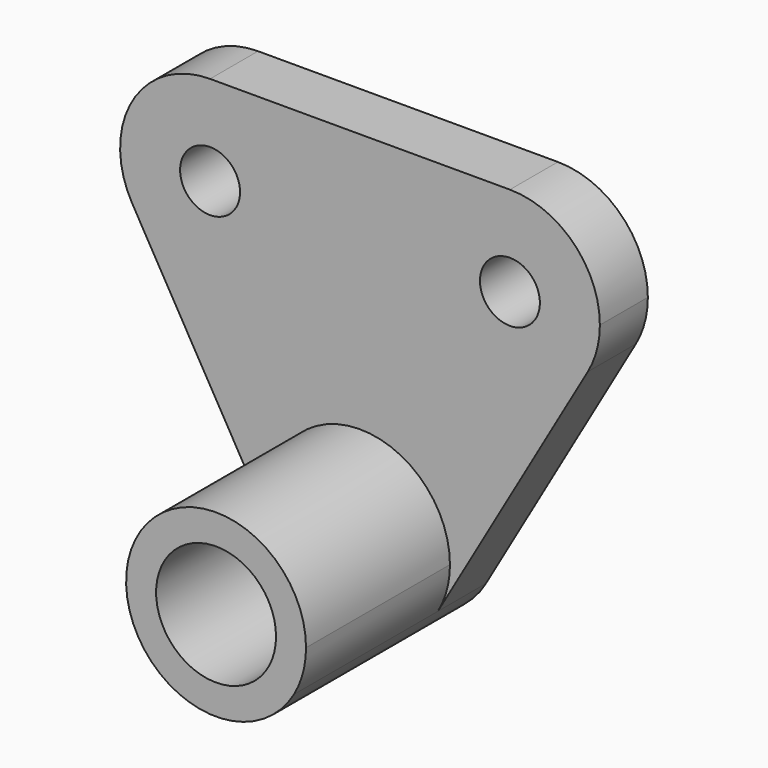
from build123d import *

# Parameters (mm, degrees)
F0_R     = 10
F0_R_2   = 20
F1_DEPTH = 20
F2_DEPTH = 80


with BuildPart() as f1:
    # F0 (on Front) → F1 (new body)
    with BuildSketch(Plane.XZ):
        with BuildLine():
            ThreePointArc((-75.980762, 27.566586), (-42.235429, 13.588811), (-20, 42.566586))
            ThreePointArc((-20, 42.566586), (-28.786797, 63.77979), (-50, 72.566586))
            ThreePointArc((-50, 72.566586), (-75.980762, 57.566586), (-75.980762, 27.566586))
        make_face()
        with Locations((-50, 42.566586)):
            Circle(F0_R, mode=Mode.SUBTRACT)
        with BuildLine():
            ThreePointArc((-50, 72.566586), (-28.786797, 63.77979), (-20, 42.566586))
            ThreePointArc((-20, 42.566586), (-42.235429, 13.588811), (-75.980762, 27.566586))
            Line((-75.980762, 27.566586), (-25.980762, -59.035954))
            ThreePointArc((-25.980762, -59.035954), (-7.764571, -15.058179), (30, -44.035954))
            ThreePointArc((30, -44.035954), (28.977775, -51.800525), (25.980762, -59.035954))
            Line((25.980762, -59.035954), (75.980762, 27.566586))
            ThreePointArc((75.980762, 27.566586), (24.019238, 27.566586), (50, 72.566586))
            Line((50, 72.566586), (-50, 72.566586))
        make_face()
        with BuildLine():
            ThreePointArc((80, 42.566586), (71.213203, 63.77979), (50, 72.566586))
            ThreePointArc((50, 72.566586), (24.019238, 27.566586), (75.980762, 27.566586))
            ThreePointArc((75.980762, 27.566586), (78.977775, 34.802015), (80, 42.566586))
        make_face()
        with Locations((50, 42.566586)):
            Circle(F0_R, mode=Mode.SUBTRACT)
        with BuildLine():
            ThreePointArc((30, -44.035954), (-7.764571, -15.058179), (-25.980762, -59.035954))
            ThreePointArc((-25.980762, -59.035954), (0, -74.035954), (25.980762, -59.035954))
            ThreePointArc((25.980762, -59.035954), (28.977775, -51.800525), (30, -44.035954))
        make_face()
        with Locations((0, -44.035954)):
            Circle(F0_R_2, mode=Mode.SUBTRACT)
    extrude(amount=F1_DEPTH)

    # F0 (on Front) → F2 (join)
    with BuildSketch(Plane.XZ):
        with BuildLine():
            ThreePointArc((30, -44.035954), (-7.764571, -15.058179), (-25.980762, -59.035954))
            ThreePointArc((-25.980762, -59.035954), (0, -74.035954), (25.980762, -59.035954))
            ThreePointArc((25.980762, -59.035954), (28.977775, -51.800525), (30, -44.035954))
        make_face()
        with Locations((0, -44.035954)):
            Circle(F0_R_2, mode=Mode.SUBTRACT)
    extrude(amount=F2_DEPTH)


solid = f1.part
